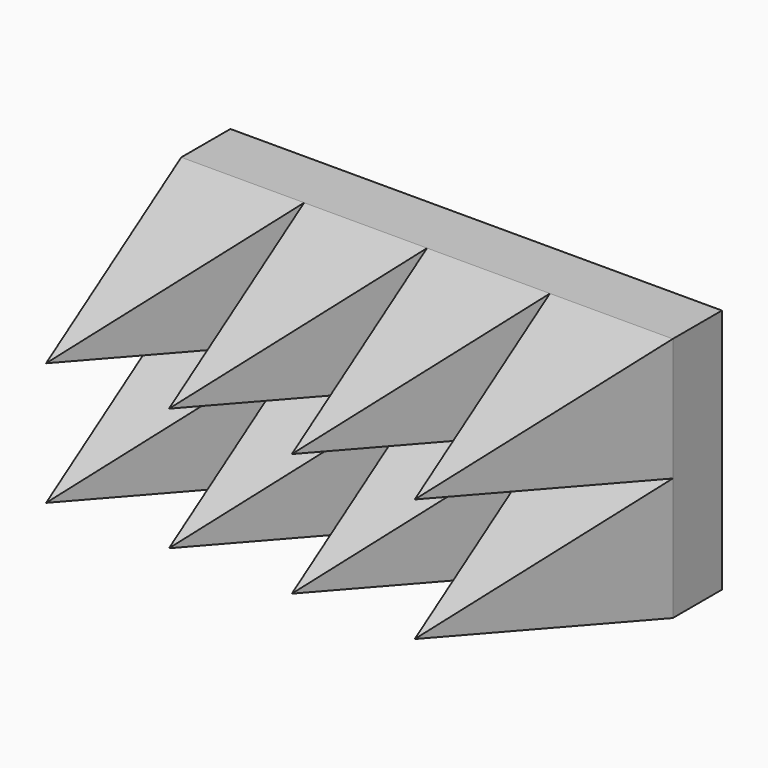
from build123d import *

# Parameters (mm, degrees)
F0_W     = 609.6
F0_H     = 304.8
F1_DEPTH = 76.2
F3_W     = 152.4
F3_H     = 152.4
F6_W     = 152.4
F6_H     = 152.4
F9_W     = 152.4
F9_H     = 152.4
F12_W    = 152.4
F12_H    = 152.4


with BuildPart() as f1:
    # F0 (on Front) → F1 (new body)
    with BuildSketch(Plane.XZ):
        Rectangle(F0_W, F0_H)
    extrude(amount=F1_DEPTH)

    # F3 (on face) → F5 section 0
    with BuildSketch(Plane.XZ.offset(76.2), mode=Mode.PRIVATE) as f5_s0:
        with Locations((-228.6, 76.2)):
            Rectangle(F3_W, F3_H)
    loft([f5_s0.sketch, Vertex(-228.6, -381, 76.2)])

    # F6 (on face) → F8 section 0
    with BuildSketch(Plane.XZ.offset(76.2), mode=Mode.PRIVATE) as f8_s0:
        with Locations((-76.2, 76.2)):
            Rectangle(F6_W, F6_H)
    loft([f8_s0.sketch, Vertex(-76.2, -381, 76.2)])

    # F9 (on face) → F11 section 0
    with BuildSketch(Plane.XZ.offset(76.2), mode=Mode.PRIVATE) as f11_s0:
        with Locations((-228.6, -76.2)):
            Rectangle(F9_W, F9_H)
    loft([f11_s0.sketch, Vertex(-228.6, -381, -76.2)])

    # F12 (on face) → F14 section 0
    with BuildSketch(Plane.XZ.offset(76.2), mode=Mode.PRIVATE) as f14_s0:
        with Locations((-76.2, -76.2)):
            Rectangle(F12_W, F12_H)
    loft([f14_s0.sketch, Vertex(-76.2, -381, -76.2)])

    # F15: F1 across plane


with BuildPart() as f1_1:
    add(f1.part)
    add(f1.part.mirror(Plane.YZ))


solid = f1_1.part
